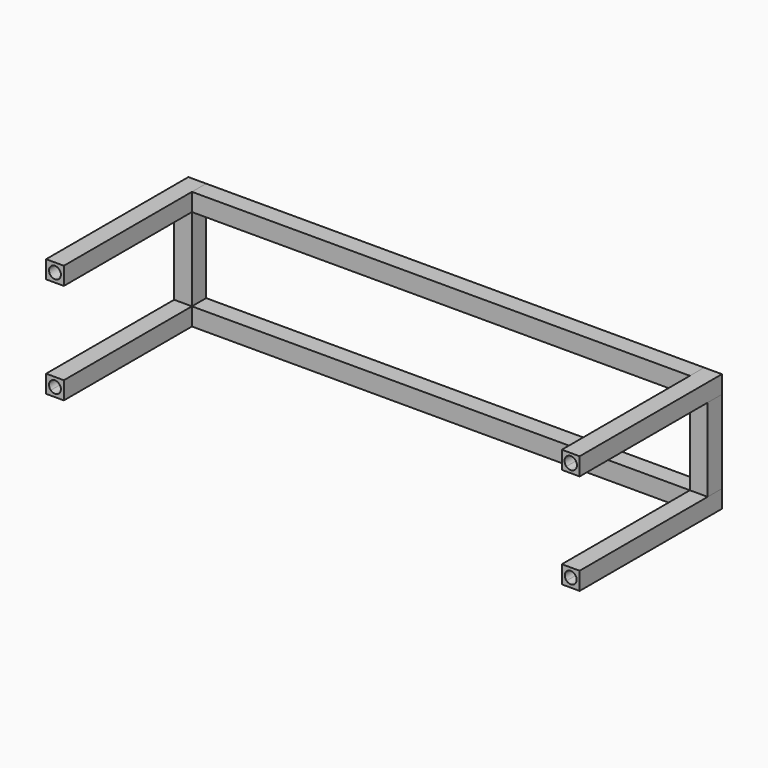
from build123d import *

# Parameters (mm, degrees)
F0_W     = 84
F0_H     = 3
F0_W_2   = 3
F0_H_2   = 14
F1_DEPTH = 3
F2_DEPTH = 30


with BuildPart() as f1:
    # F0 (on Front) → F1 (new body)
    with BuildSketch(Plane.XZ):
        with Locations((0, 8.5)):
            Rectangle(F0_W, F0_H)
        with Locations((0, -8.5)):
            Rectangle(F0_W, F0_H)
        with Locations((-43.5, 0)):
            Rectangle(F0_W_2, F0_H_2)
        with Locations((43.5, 0)):
            Rectangle(F0_W_2, F0_H_2)
    extrude(amount=F1_DEPTH)


with BuildPart() as f2:
    # F0 (on Front) → F2 (new body)
    with BuildSketch(Plane.XZ):
        with BuildLine():
            Line((45, -7), (42, -7))
            Line((42, -7), (42, -10))
            Line((42, -10), (42.792893, -9.207107))
            ThreePointArc((42.792893, -9.207107), (42.792893, -7.792893), (44.207107, -7.792893))
            Line((44.207107, -7.792893), (45, -7))
        make_face()
        with BuildLine():
            Line((45, -10), (45, -7))
            Line((45, -7), (44.207107, -7.792893))
            ThreePointArc((44.207107, -7.792893), (44.42388, -8.117317), (44.5, -8.5))
            ThreePointArc((44.5, -8.5), (43.882683, -9.42388), (42.792893, -9.207107))
            Line((42.792893, -9.207107), (42, -10))
            Line((42, -10), (45, -10))
        make_face()
        with BuildLine():
            Line((-42.792893, -7.792893), (-42, -7))
            Line((-42, -7), (-45, -7))
            Line((-45, -7), (-45, -10))
            Line((-45, -10), (-44.207107, -9.207107))
            ThreePointArc((-44.207107, -9.207107), (-44.207107, -7.792893), (-42.792893, -7.792893))
        make_face()
        with BuildLine():
            Line((-42, -10), (-42, -7))
            Line((-42, -7), (-42.792893, -7.792893))
            ThreePointArc((-42.792893, -7.792893), (-42.57612, -8.117317), (-42.5, -8.5))
            ThreePointArc((-42.5, -8.5), (-43.117317, -9.42388), (-44.207107, -9.207107))
            Line((-44.207107, -9.207107), (-45, -10))
            Line((-45, -10), (-42, -10))
        make_face()
        with BuildLine():
            Line((-45, 7), (-42, 7))
            Line((-42, 7), (-42.792893, 7.792893))
            ThreePointArc((-42.792893, 7.792893), (-44.207107, 7.792893), (-44.207107, 9.207107))
            Line((-44.207107, 9.207107), (-45, 10))
            Line((-45, 10), (-45, 7))
        make_face()
        with BuildLine():
            Line((-42.792893, 7.792893), (-42, 7))
            Line((-42, 7), (-42, 10))
            Line((-42, 10), (-45, 10))
            Line((-45, 10), (-44.207107, 9.207107))
            ThreePointArc((-44.207107, 9.207107), (-43.117317, 9.42388), (-42.5, 8.5))
            ThreePointArc((-42.5, 8.5), (-42.57612, 8.117317), (-42.792893, 7.792893))
        make_face()
        with BuildLine():
            Line((42, 10), (42, 7))
            Line((42, 7), (42.757538, 7.757538))
            ThreePointArc((42.757538, 7.757538), (42.757538, 9.242462), (44.242462, 9.242462))
            Line((44.242462, 9.242462), (45, 10))
            Line((45, 10), (42, 10))
        make_face()
        with BuildLine():
            Line((42.757538, 7.757538), (42, 7))
            Line((42, 7), (45, 7))
            Line((45, 7), (45, 10))
            Line((45, 10), (44.242462, 9.242462))
            ThreePointArc((44.242462, 9.242462), (44.470074, 8.901818), (44.55, 8.5))
            ThreePointArc((44.55, 8.5), (43.901818, 7.529926), (42.757538, 7.757538))
        make_face()
    extrude(amount=F2_DEPTH)


solid = Compound([f1.part, f2.part])
